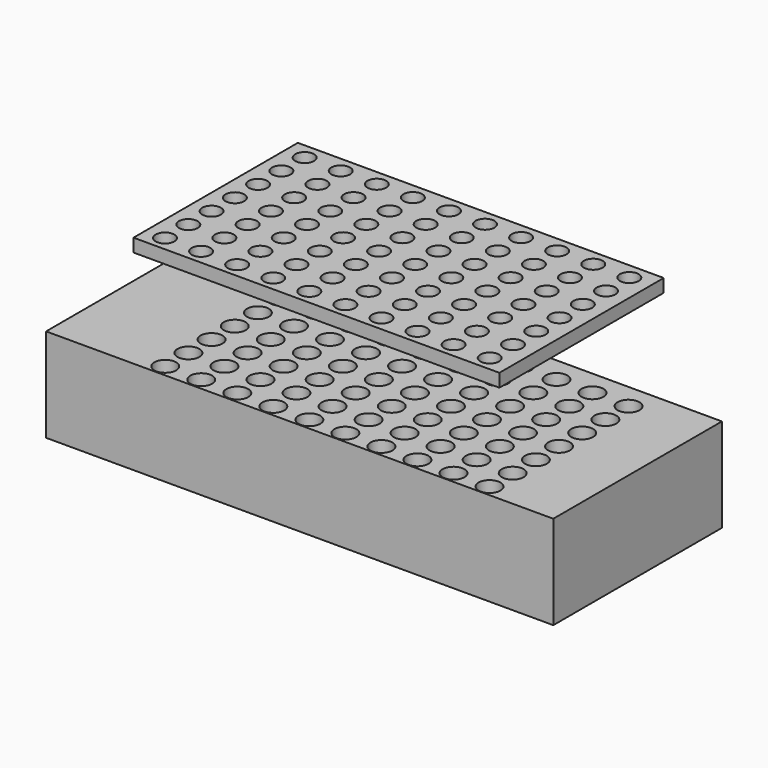
from build123d import *

# Parameters (mm, degrees)
F0_W     = 198.320925
F0_H     = 111.332375
F0_R     = 5.080543
F1_DEPTH = 7.112
F3_W     = 274.922803
F3_H     = 114.253633
F3_R     = 5.923104
F4_DEPTH = 50.8


with BuildPart() as f1:
    # F0 (on Top) → F1 (new body)
    with BuildSketch(Plane.XY):
        with Locations((0.324585, -0.162291)):
            Rectangle(F0_W, F0_H)
        with Locations((-88.218606, -47.747831)):
            Circle(F0_R, mode=Mode.SUBTRACT)
        with Locations((-68.660606, -47.752795)):
            Circle(F0_R, mode=Mode.SUBTRACT)
        with Locations((-88.202939, -31.999839)):
            Circle(F0_R, mode=Mode.SUBTRACT)
        with Locations((-68.644939, -32.004802)):
            Circle(F0_R, mode=Mode.SUBTRACT)
        with Locations((-49.102607, -47.757758)):
            Circle(F0_R, mode=Mode.SUBTRACT)
        with Locations((-29.544608, -47.762722)):
            Circle(F0_R, mode=Mode.SUBTRACT)
        with Locations((-9.986608, -47.767685)):
            Circle(F0_R, mode=Mode.SUBTRACT)
        with Locations((-49.08694, -32.009766)):
            Circle(F0_R, mode=Mode.SUBTRACT)
        with Locations((-29.528941, -32.01473)):
            Circle(F0_R, mode=Mode.SUBTRACT)
        with Locations((-9.970941, -32.019693)):
            Circle(F0_R, mode=Mode.SUBTRACT)
        with Locations((-88.187272, -16.251847)):
            Circle(F0_R, mode=Mode.SUBTRACT)
        with Locations((-68.629272, -16.25681)):
            Circle(F0_R, mode=Mode.SUBTRACT)
        with Locations((-88.171604, -0.503854)):
            Circle(F0_R, mode=Mode.SUBTRACT)
        with Locations((-68.613605, -0.508818)):
            Circle(F0_R, mode=Mode.SUBTRACT)
        with Locations((-49.071273, -16.261774)):
            Circle(F0_R, mode=Mode.SUBTRACT)
        with Locations((-29.513273, -16.266737)):
            Circle(F0_R, mode=Mode.SUBTRACT)
        with Locations((-9.955274, -16.271701)):
            Circle(F0_R, mode=Mode.SUBTRACT)
        with Locations((-49.055606, -0.513782)):
            Circle(F0_R, mode=Mode.SUBTRACT)
        with Locations((-29.497606, -0.518745)):
            Circle(F0_R, mode=Mode.SUBTRACT)
        with Locations((-9.939607, -0.523709)):
            Circle(F0_R, mode=Mode.SUBTRACT)
        with Locations((9.571391, -47.772649)):
            Circle(F0_R, mode=Mode.SUBTRACT)
        with Locations((29.12939, -47.777612)):
            Circle(F0_R, mode=Mode.SUBTRACT)
        with Locations((48.68739, -47.782576)):
            Circle(F0_R, mode=Mode.SUBTRACT)
        with Locations((9.587058, -32.024657)):
            Circle(F0_R, mode=Mode.SUBTRACT)
        with Locations((29.145058, -32.02962)):
            Circle(F0_R, mode=Mode.SUBTRACT)
        with Locations((48.703057, -32.034584)):
            Circle(F0_R, mode=Mode.SUBTRACT)
        with Locations((68.245389, -47.787539)):
            Circle(F0_R, mode=Mode.SUBTRACT)
        with Locations((87.803389, -47.792503)):
            Circle(F0_R, mode=Mode.SUBTRACT)
        with Locations((68.261056, -32.039547)):
            Circle(F0_R, mode=Mode.SUBTRACT)
        with Locations((87.819056, -32.044511)):
            Circle(F0_R, mode=Mode.SUBTRACT)
        with Locations((9.602725, -16.276664)):
            Circle(F0_R, mode=Mode.SUBTRACT)
        with Locations((29.160725, -16.281628)):
            Circle(F0_R, mode=Mode.SUBTRACT)
        with Locations((48.718724, -16.286591)):
            Circle(F0_R, mode=Mode.SUBTRACT)
        with Locations((9.618392, -0.528672)):
            Circle(F0_R, mode=Mode.SUBTRACT)
        with Locations((29.176392, -0.533636)):
            Circle(F0_R, mode=Mode.SUBTRACT)
        with Locations((48.734391, -0.538599)):
            Circle(F0_R, mode=Mode.SUBTRACT)
        with Locations((68.276723, -16.291555)):
            Circle(F0_R, mode=Mode.SUBTRACT)
        with Locations((87.834723, -16.296519)):
            Circle(F0_R, mode=Mode.SUBTRACT)
        with Locations((68.292391, -0.543563)):
            Circle(F0_R, mode=Mode.SUBTRACT)
        with Locations((87.85039, -0.548526)):
            Circle(F0_R, mode=Mode.SUBTRACT)
        with Locations((-88.155937, 15.244138)):
            Circle(F0_R, mode=Mode.SUBTRACT)
        with Locations((-68.597938, 15.239174)):
            Circle(F0_R, mode=Mode.SUBTRACT)
        with Locations((-49.039939, 15.234211)):
            Circle(F0_R, mode=Mode.SUBTRACT)
        with Locations((-29.481939, 15.229247)):
            Circle(F0_R, mode=Mode.SUBTRACT)
        with Locations((-9.92394, 15.224284)):
            Circle(F0_R, mode=Mode.SUBTRACT)
        with Locations((-88.14027, 30.99213)):
            Circle(F0_R, mode=Mode.SUBTRACT)
        with Locations((-68.582271, 30.987166)):
            Circle(F0_R, mode=Mode.SUBTRACT)
        with Locations((-88.124603, 46.740122)):
            Circle(F0_R, mode=Mode.SUBTRACT)
        with Locations((-68.566604, 46.735159)):
            Circle(F0_R, mode=Mode.SUBTRACT)
        with Locations((-49.024271, 30.982203)):
            Circle(F0_R, mode=Mode.SUBTRACT)
        with Locations((-29.466272, 30.977239)):
            Circle(F0_R, mode=Mode.SUBTRACT)
        with Locations((-9.908273, 30.972276)):
            Circle(F0_R, mode=Mode.SUBTRACT)
        with Locations((-49.008604, 46.730195)):
            Circle(F0_R, mode=Mode.SUBTRACT)
        with Locations((-29.450605, 46.725232)):
            Circle(F0_R, mode=Mode.SUBTRACT)
        with Locations((-9.892606, 46.720268)):
            Circle(F0_R, mode=Mode.SUBTRACT)
        with Locations((9.63406, 15.21932)):
            Circle(F0_R, mode=Mode.SUBTRACT)
        with Locations((29.192059, 15.214356)):
            Circle(F0_R, mode=Mode.SUBTRACT)
        with Locations((48.750058, 15.209393)):
            Circle(F0_R, mode=Mode.SUBTRACT)
        with Locations((68.308058, 15.204429)):
            Circle(F0_R, mode=Mode.SUBTRACT)
        with Locations((87.866057, 15.199466)):
            Circle(F0_R, mode=Mode.SUBTRACT)
        with Locations((9.649727, 30.967312)):
            Circle(F0_R, mode=Mode.SUBTRACT)
        with Locations((29.207726, 30.962349)):
            Circle(F0_R, mode=Mode.SUBTRACT)
        with Locations((48.765725, 30.957385)):
            Circle(F0_R, mode=Mode.SUBTRACT)
        with Locations((9.665394, 46.715304)):
            Circle(F0_R, mode=Mode.SUBTRACT)
        with Locations((29.223393, 46.710341)):
            Circle(F0_R, mode=Mode.SUBTRACT)
        with Locations((48.781393, 46.705377)):
            Circle(F0_R, mode=Mode.SUBTRACT)
        with Locations((68.323725, 30.952422)):
            Circle(F0_R, mode=Mode.SUBTRACT)
        with Locations((87.881724, 30.947458)):
            Circle(F0_R, mode=Mode.SUBTRACT)
        with Locations((68.339392, 46.700414)):
            Circle(F0_R, mode=Mode.SUBTRACT)
        with Locations((87.897391, 46.69545)):
            Circle(F0_R, mode=Mode.SUBTRACT)
    extrude(amount=-F1_DEPTH)


with BuildPart() as f4:
    # F3 (on offset) → F4 (new body)
    with BuildSketch(Plane.XY.offset(-61.214)):
        with Locations((-10.062106, 2.921257)):
            Rectangle(F3_W, F3_H)
        with Locations((-88.124603, -47.717895)):
            Circle(F3_R, mode=Mode.SUBTRACT)
        with Locations((-88.138, -32.004)):
            Circle(F3_R, mode=Mode.SUBTRACT)
        with Locations((-68.566634, -47.752473)):
            Circle(F3_R, mode=Mode.SUBTRACT)
        with Locations((-49.008664, -47.78705)):
            Circle(F3_R, mode=Mode.SUBTRACT)
        with Locations((-29.450695, -47.821627)):
            Circle(F3_R, mode=Mode.SUBTRACT)
        with Locations((-68.580031, -32.038577)):
            Circle(F3_R, mode=Mode.SUBTRACT)
        with Locations((-49.022061, -32.073155)):
            Circle(F3_R, mode=Mode.SUBTRACT)
        with Locations((-29.464092, -32.107732)):
            Circle(F3_R, mode=Mode.SUBTRACT)
        with Locations((-88.151397, -16.290105)):
            Circle(F3_R, mode=Mode.SUBTRACT)
        with Locations((-88.164794, -0.576209)):
            Circle(F3_R, mode=Mode.SUBTRACT)
        with Locations((-68.593428, -16.324682)):
            Circle(F3_R, mode=Mode.SUBTRACT)
        with Locations((-49.035458, -16.359259)):
            Circle(F3_R, mode=Mode.SUBTRACT)
        with Locations((-29.477489, -16.393837)):
            Circle(F3_R, mode=Mode.SUBTRACT)
        with Locations((-68.606824, -0.610787)):
            Circle(F3_R, mode=Mode.SUBTRACT)
        with Locations((-49.048855, -0.645364)):
            Circle(F3_R, mode=Mode.SUBTRACT)
        with Locations((-29.490886, -0.679941)):
            Circle(F3_R, mode=Mode.SUBTRACT)
        with Locations((-9.892725, -47.856205)):
            Circle(F3_R, mode=Mode.SUBTRACT)
        with Locations((9.665244, -47.890782)):
            Circle(F3_R, mode=Mode.SUBTRACT)
        with Locations((29.223214, -47.925359)):
            Circle(F3_R, mode=Mode.SUBTRACT)
        with Locations((48.781183, -47.959937)):
            Circle(F3_R, mode=Mode.SUBTRACT)
        with Locations((-9.906122, -32.142309)):
            Circle(F3_R, mode=Mode.SUBTRACT)
        with Locations((9.651847, -32.176887)):
            Circle(F3_R, mode=Mode.SUBTRACT)
        with Locations((29.209817, -32.211464)):
            Circle(F3_R, mode=Mode.SUBTRACT)
        with Locations((48.767786, -32.246041)):
            Circle(F3_R, mode=Mode.SUBTRACT)
        with Locations((68.339152, -47.994514)):
            Circle(F3_R, mode=Mode.SUBTRACT)
        with Locations((87.897122, -48.029091)):
            Circle(F3_R, mode=Mode.SUBTRACT)
        with Locations((68.325755, -32.280619)):
            Circle(F3_R, mode=Mode.SUBTRACT)
        with Locations((87.883725, -32.315196)):
            Circle(F3_R, mode=Mode.SUBTRACT)
        with Locations((-9.919519, -16.428414)):
            Circle(F3_R, mode=Mode.SUBTRACT)
        with Locations((9.63845, -16.462991)):
            Circle(F3_R, mode=Mode.SUBTRACT)
        with Locations((29.19642, -16.497569)):
            Circle(F3_R, mode=Mode.SUBTRACT)
        with Locations((48.754389, -16.532146)):
            Circle(F3_R, mode=Mode.SUBTRACT)
        with Locations((-9.932916, -0.714519)):
            Circle(F3_R, mode=Mode.SUBTRACT)
        with Locations((9.625053, -0.749096)):
            Circle(F3_R, mode=Mode.SUBTRACT)
        with Locations((29.183023, -0.783673)):
            Circle(F3_R, mode=Mode.SUBTRACT)
        with Locations((48.740992, -0.818251)):
            Circle(F3_R, mode=Mode.SUBTRACT)
        with Locations((68.312359, -16.566723)):
            Circle(F3_R, mode=Mode.SUBTRACT)
        with Locations((87.870328, -16.601301)):
            Circle(F3_R, mode=Mode.SUBTRACT)
        with Locations((68.298962, -0.852828)):
            Circle(F3_R, mode=Mode.SUBTRACT)
        with Locations((87.856931, -0.887405)):
            Circle(F3_R, mode=Mode.SUBTRACT)
        with Locations((-88.178191, 15.137686)):
            Circle(F3_R, mode=Mode.SUBTRACT)
        with Locations((-68.620221, 15.103109)):
            Circle(F3_R, mode=Mode.SUBTRACT)
        with Locations((-49.062252, 15.068531)):
            Circle(F3_R, mode=Mode.SUBTRACT)
        with Locations((-29.504283, 15.033954)):
            Circle(F3_R, mode=Mode.SUBTRACT)
        with Locations((-88.191588, 30.851581)):
            Circle(F3_R, mode=Mode.SUBTRACT)
        with Locations((-88.204985, 46.565477)):
            Circle(F3_R, mode=Mode.SUBTRACT)
        with Locations((-68.633618, 30.817004)):
            Circle(F3_R, mode=Mode.SUBTRACT)
        with Locations((-49.075649, 30.782427)):
            Circle(F3_R, mode=Mode.SUBTRACT)
        with Locations((-29.51768, 30.747849)):
            Circle(F3_R, mode=Mode.SUBTRACT)
        with Locations((-68.647015, 46.530899)):
            Circle(F3_R, mode=Mode.SUBTRACT)
        with Locations((-49.089046, 46.496322)):
            Circle(F3_R, mode=Mode.SUBTRACT)
        with Locations((-29.531077, 46.461745)):
            Circle(F3_R, mode=Mode.SUBTRACT)
        with Locations((-9.946313, 14.999377)):
            Circle(F3_R, mode=Mode.SUBTRACT)
        with Locations((9.611656, 14.964799)):
            Circle(F3_R, mode=Mode.SUBTRACT)
        with Locations((29.169626, 14.930222)):
            Circle(F3_R, mode=Mode.SUBTRACT)
        with Locations((48.727595, 14.895645)):
            Circle(F3_R, mode=Mode.SUBTRACT)
        with Locations((68.285565, 14.861067)):
            Circle(F3_R, mode=Mode.SUBTRACT)
        with Locations((87.843534, 14.82649)):
            Circle(F3_R, mode=Mode.SUBTRACT)
        with Locations((68.272168, 30.574963)):
            Circle(F3_R, mode=Mode.SUBTRACT)
        with Locations((87.830137, 30.540385)):
            Circle(F3_R, mode=Mode.SUBTRACT)
        with Locations((-9.95971, 30.713272)):
            Circle(F3_R, mode=Mode.SUBTRACT)
        with Locations((9.598259, 30.678695)):
            Circle(F3_R, mode=Mode.SUBTRACT)
        with Locations((29.156229, 30.644117)):
            Circle(F3_R, mode=Mode.SUBTRACT)
        with Locations((48.714198, 30.60954)):
            Circle(F3_R, mode=Mode.SUBTRACT)
        with Locations((-9.973107, 46.427167)):
            Circle(F3_R, mode=Mode.SUBTRACT)
        with Locations((9.584862, 46.39259)):
            Circle(F3_R, mode=Mode.SUBTRACT)
        with Locations((29.142832, 46.358013)):
            Circle(F3_R, mode=Mode.SUBTRACT)
        with Locations((48.700801, 46.323435)):
            Circle(F3_R, mode=Mode.SUBTRACT)
        with Locations((68.258771, 46.288858)):
            Circle(F3_R, mode=Mode.SUBTRACT)
        with Locations((87.81674, 46.254281)):
            Circle(F3_R, mode=Mode.SUBTRACT)
    extrude(amount=-F4_DEPTH)


solid = Compound([f1.part, f4.part])
